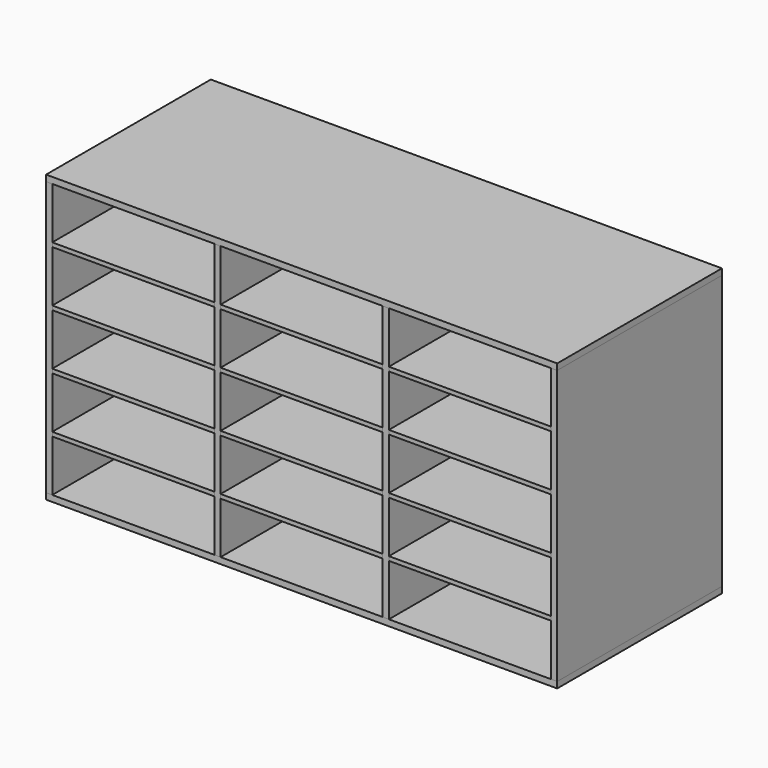
from build123d import *

# Parameters (mm, degrees)
F0_W      = 993
F0_H      = 400
F1_DEPTH  = 12
F2_W      = 12
F2_H      = 400
F3_DEPTH  = 532
F4_W      = 993
F4_H      = 400
F5_DEPTH  = 12
F6_W      = 12
F6_H      = 400
F7_DEPTH  = 532
F8_W      = 400
F8_H      = 8
F9_DEPTH  = 315
F10_W     = 400
F10_H     = 8
F11_DEPTH = 315
F12_W     = 400
F12_H     = 8
F13_DEPTH = 315


with BuildPart() as f1:
    # F0 (on Top) → F1 (new body)
    with BuildSketch(Plane.XY):
        Rectangle(F0_W, F0_H)
    extrude(amount=F1_DEPTH)


with BuildPart() as f3:
    # F2 (on face) → F3 (new body)
    with BuildSketch(Plane.XY.offset(12)):
        with Locations((-490.5, 0)):
            Rectangle(F2_W, F2_H)
        with Locations((490.5, 0)):
            Rectangle(F2_W, F2_H)
    extrude(amount=F3_DEPTH)


with BuildPart() as f5:
    # F4 (on face) → F5 (new body)
    with BuildSketch(Plane.XY.offset(544)):
        Rectangle(F4_W, F4_H)
    extrude(amount=F5_DEPTH)


with BuildPart() as f7:
    # F6 (on face) → F7 (new body)
    with BuildSketch(Plane.XY.offset(12)):
        with Locations((-163.5, 0)):
            Rectangle(F6_W, F6_H)
        with Locations((163.5, 0)):
            Rectangle(F6_W, F6_H)
    extrude(amount=F7_DEPTH)


with BuildPart() as f9:
    # F8 (on face) → F9 (new body)
    with BuildSketch(Plane.YZ.offset(-157.5)):
        with Locations((0, 116)):
            Rectangle(F8_W, F8_H)
        with Locations((0, 224)):
            Rectangle(F8_W, F8_H)
        with Locations((0, 332)):
            Rectangle(F8_W, F8_H)
        with Locations((0, 440)):
            Rectangle(F8_W, F8_H)
    extrude(amount=F9_DEPTH)


with BuildPart() as f11:
    # F10 (on face) → F11 (new body)
    with BuildSketch(Plane(origin=(484.5, 0, 0), x_dir=(0, -1, 0), z_dir=(-1, 0, 0))):
        with Locations((0, 116)):
            Rectangle(F10_W, F10_H)
        with Locations((0, 224)):
            Rectangle(F10_W, F10_H)
        with Locations((0, 332)):
            Rectangle(F10_W, F10_H)
        with Locations((0, 440)):
            Rectangle(F10_W, F10_H)
    extrude(amount=F11_DEPTH)


with BuildPart() as f13:
    # F12 (on face) → F13 (new body)
    with BuildSketch(Plane(origin=(-169.5, 0, 0), x_dir=(0, -1, 0), z_dir=(-1, 0, 0))):
        with Locations((0, 116)):
            Rectangle(F12_W, F12_H)
        with Locations((0, 224)):
            Rectangle(F12_W, F12_H)
        with Locations((0, 332)):
            Rectangle(F12_W, F12_H)
        with Locations((0, 440)):
            Rectangle(F12_W, F12_H)
    extrude(amount=F13_DEPTH)


solid = Compound([f1.part, f3.part, f5.part, f7.part, f9.part, f11.part, f13.part])
